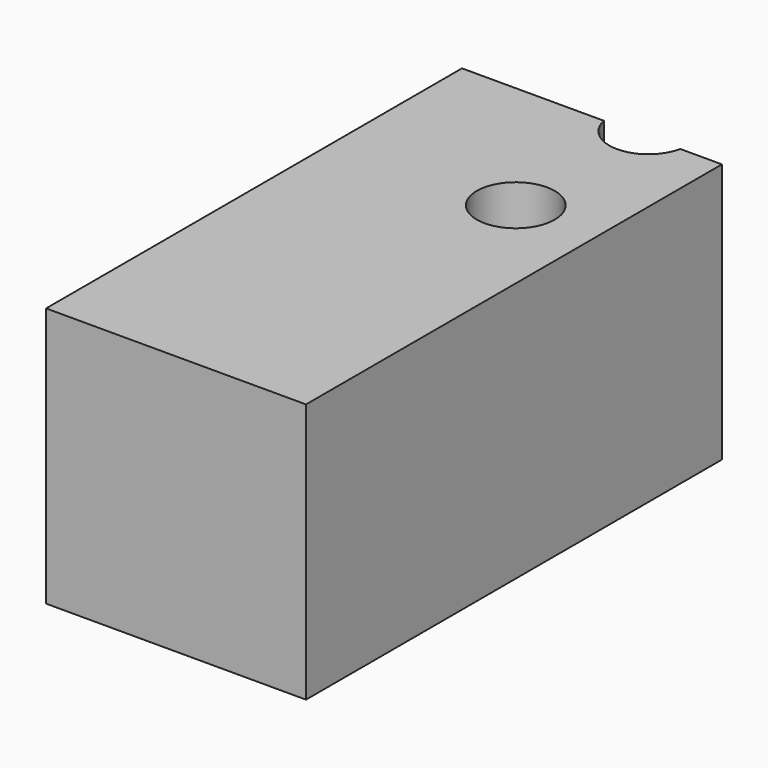
from build123d import *

# Parameters (mm, degrees)
F0_W     = 100
F0_H     = 200
F1_DEPTH = 100
F2_R     = 15
F3_DEPTH = 100
F5_DEPTH = 100


with BuildPart() as f1:
    # F0 (on Top) → F1 (new body)
    with BuildSketch(Plane.XY):
        Rectangle(F0_W, F0_H)
    extrude(amount=F1_DEPTH)

    # F2 (on face) → F3 (cut)
    with BuildSketch(Plane.XY.offset(100)):
        with Locations((18.2735839133, 40.5311594063)):
            Circle(F2_R)
    extrude(amount=-F3_DEPTH, mode=Mode.SUBTRACT)

    # F4 (on face) → F5 (cut)
    with BuildSketch(Plane.XY.offset(100)):
        with BuildLine():
            Line((33.9623928101, 100), (4.5817479461, 100))
            ThreePointArc((4.5817479461, 100), (19.2720703781, 88.0322313309), (33.9623928101, 100))
        make_face()
        with BuildLine():
            ThreePointArc((33.9623928101, 100), (34.1944501561, 101.5082294411), (34.2720703781, 103.0322313309))
            ThreePointArc((34.2720703781, 103.0322313309), (17.7480684883, 117.9546111089), (4.5817479461, 100))
            Line((4.5817479461, 100), (33.9623928101, 100))
        make_face()
    extrude(amount=-F5_DEPTH, mode=Mode.SUBTRACT)


solid = f1.part
